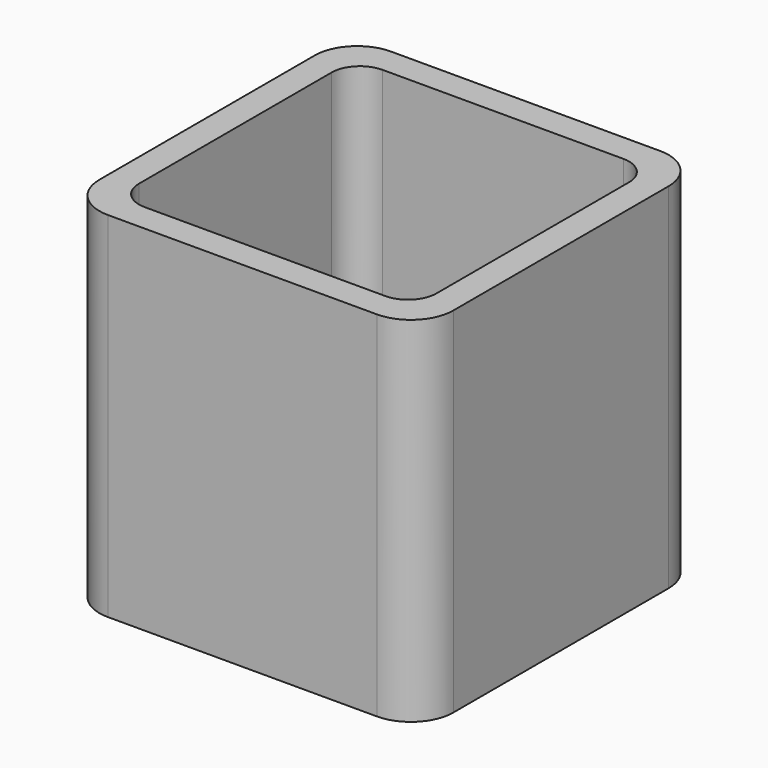
from build123d import *

# Parameters (mm, degrees)
EXTRUDE_DEPTH = 50


with BuildPart() as part:
    # Sketch → Extrude (new body)
    with BuildSketch(Plane.XY):
        with BuildLine():
            Line((-19, 25), (19, 25))
            ThreePointArc((25, 19), (23.242641, 23.242641), (19, 25))
            Line((25, 19), (25, -19))
            ThreePointArc((19, -25), (23.242641, -23.242641), (25, -19))
            Line((19, -25), (-19, -25))
            ThreePointArc((-25, -19), (-23.242641, -23.242641), (-19, -25))
            Line((-25, -19), (-25, 19))
            ThreePointArc((-19, 25), (-23.242641, 23.242641), (-25, 19))
        make_face()
        with BuildLine():
            Line((-17, 21), (17, 21))
            ThreePointArc((21, 17), (19.828427, 19.828427), (17, 21))
            Line((21, 17), (21, -17))
            ThreePointArc((17, -21), (19.828427, -19.828427), (21, -17))
            Line((17, -21), (-17, -21))
            ThreePointArc((-21, -17), (-19.828427, -19.828427), (-17, -21))
            Line((-21, -17), (-21, 17))
            ThreePointArc((-17, 21), (-19.828427, 19.828427), (-21, 17))
        make_face(mode=Mode.SUBTRACT)
    extrude(amount=EXTRUDE_DEPTH)


solid = part.part
